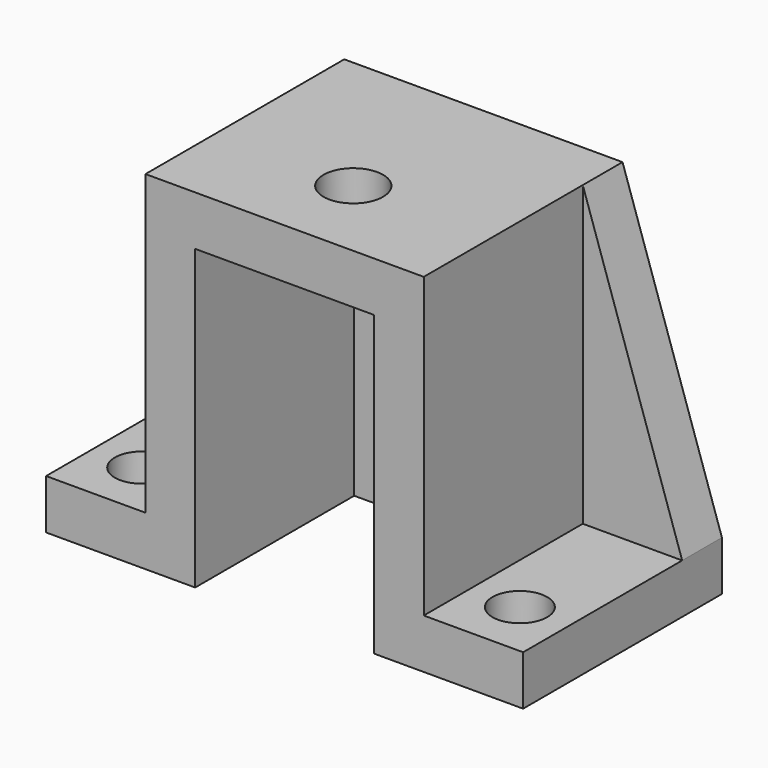
from build123d import *

# Parameters (mm, degrees)
F1_DEPTH = 50
F2_DEPTH = 10
F3_R     = 5.5
F4_DEPTH = 10
F5_R     = 6
F6_DEPTH = 12


with BuildPart() as f1:
    # F0 (on Front) → F1 (new body)
    with BuildSketch(Plane.XZ):
        Polygon((-48, 10), (-48, 0), (-18, 0), (-18, 60), (0, 60), (18, 60), (18, 0), (48, 0), (48, 10), (28, 10), (28, 70), (0, 70), (-28, 70), (-28, 10), align=None)
    extrude(amount=F1_DEPTH)

    # F0 (on Front) → F2 (join)
    with BuildSketch(Plane.XZ):
        Polygon((-28, 70), (-48, 10), (-28, 10), align=None)
        Polygon((48, 10), (28, 70), (28, 10), align=None)
        Polygon((-18, 60), (-18, 0), (0, 0), (18, 0), (18, 60), (0, 60), align=None)
    extrude(amount=F2_DEPTH)

    # F3 (on Top) → F4 (cut)
    with BuildSketch(Plane.XY):
        with Locations((-38, -38.325)):
            Circle(F3_R)
        with Locations((38, -38.325)):
            Circle(F3_R)
    extrude(amount=F4_DEPTH, mode=Mode.SUBTRACT)

    # F5 (on face) → F6 (cut)
    with BuildSketch(Plane.XY.offset(70)):
        with Locations((0, -32.725)):
            Circle(F5_R)
    extrude(amount=-F6_DEPTH, mode=Mode.SUBTRACT)


solid = f1.part
